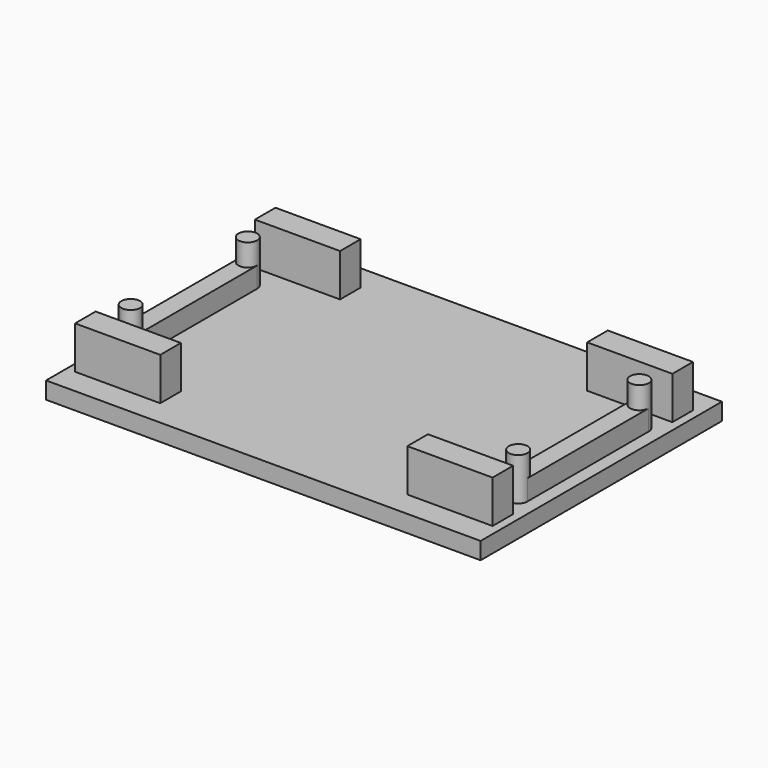
from build123d import *

# Parameters (mm, degrees)
SKETCH030_W   = 51
SKETCH030_H   = 35.4
PAD011_DEPTH  = 2
SKETCH031_W   = 2.2
SKETCH031_H   = 17.18
SKETCH031_H_2 = 17.78
PAD012_DEPTH  = 2.4
SKETCH032_R   = 1.1
SKETCH032_W   = 10
SKETCH032_H   = 3.02
PAD013_DEPTH  = 5


with BuildPart() as part:
    # Sketch030 (on DatumPlane) → Pad011 (new body)
    with BuildSketch(Plane.XY):
        Rectangle(SKETCH030_W, SKETCH030_H)
    extrude(amount=-PAD011_DEPTH)

    # Sketch031 (on DatumPlane) → Pad012 (join)
    with BuildSketch(Plane.XY):
        with Locations((-22.86, 0)):
            Rectangle(SKETCH031_W, SKETCH031_H)
        with Locations((22.86, 0)):
            Rectangle(SKETCH031_W, SKETCH031_H_2)
    extrude(amount=PAD012_DEPTH)

    # Sketch032 (on DatumPlane) → Pad013 (join)
    with BuildSketch(Plane.XY):
        with Locations((-22.86, -8.59)):
            Circle(SKETCH032_R)
        with Locations((-22.86, 8.59)):
            Circle(SKETCH032_R)
        with Locations((22.86, 8.89)):
            Circle(SKETCH032_R)
        with Locations((22.86, -8.89)):
            Circle(SKETCH032_R)
        with Locations((-19.5, 13.19)):
            Rectangle(SKETCH032_W, SKETCH032_H)
        with Locations((19.5, 13.19)):
            Rectangle(SKETCH032_W, SKETCH032_H)
        with Locations((-19.5, -13.19)):
            Rectangle(SKETCH032_W, SKETCH032_H)
        with Locations((19.5, -13.19)):
            Rectangle(SKETCH032_W, SKETCH032_H)
    extrude(amount=PAD013_DEPTH)


solid = part.part
